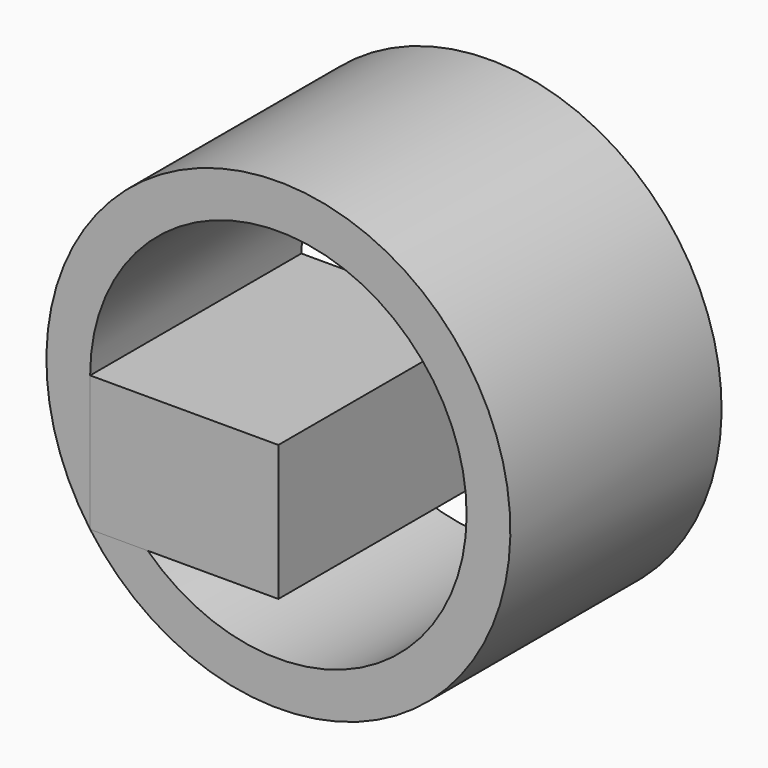
from build123d import *

# Parameters (mm, degrees)
F1_DEPTH  = 85.046515
F1_FACE_W = 85.046514
F1_FACE_H = 43.66757


with BuildPart() as f1:
    # F0 (on Front) → F1 (new body)
    with BuildSketch(Plane.XZ):
        Polygon((-36.269344, 9.563521), (10.285333, 9.563521), (24.360001, 9.563521), (24.360001, 53.23109), (-36.269344, 53.23109), align=None)
    extrude(amount=F1_DEPTH)

    # F1_face (on face) → F2 (revolve)
    with BuildSketch(Plane(origin=(-36.269344, -42.523257, 31.397305), x_dir=(0, -1, 0), z_dir=(-1, 0, 0))):
        Rectangle(F1_FACE_W, F1_FACE_H)
    revolve(axis=Axis((24.360001, -42.523257, 53.23109), (0, -1, 0)))


solid = f1.part
